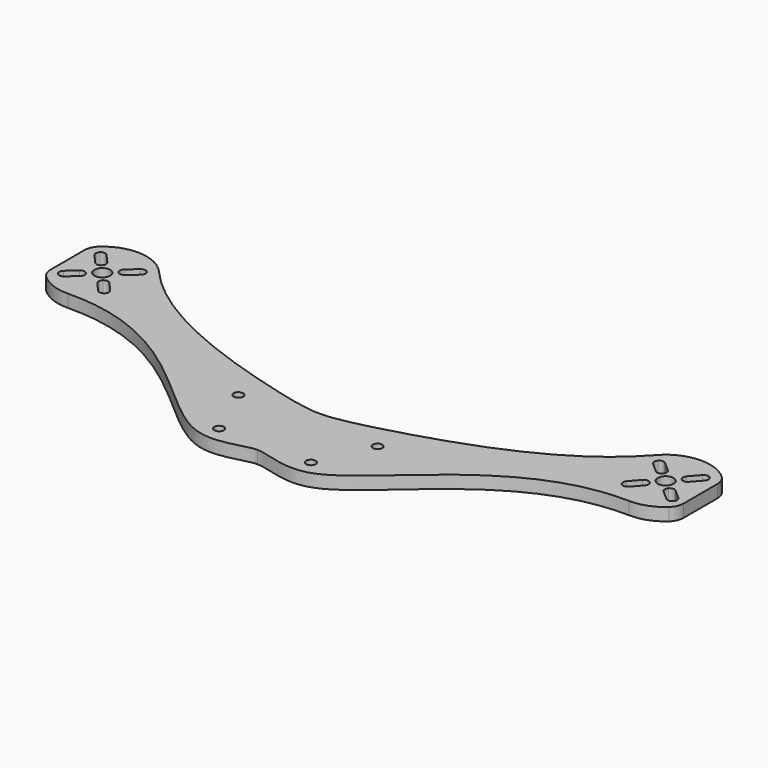
from build123d import *

# Parameters (mm, degrees)
F0_R     = 2.5
F0_R_2   = 1.5
F1_DEPTH = 4


with BuildPart() as f1:
    # F0 (on Top) → F1 (new body)
    with BuildSketch(Plane.XY):
        with BuildLine():
            ThreePointArc((100, 36.7082039325), (99.5643546459, 38.7494453848), (98.3333333333, 40.434983895))
            ThreePointArc((98.3333333333, 40.434983895), (88.2480547914, 43.9797917868), (78.6012006129, 39.3736317032))
            add(Edge.make_bspline(
                [(78.2678444341, 38.9900409849), (78.3796218574, 39.1174296296), (78.4907435172, 39.2452925352), (78.6012006129, 39.3736317032)],
                knots=[0.9951145834, 0.9951145834, 0.9951145834, 0.9951145834, 1, 1, 1, 1], degree=3))
            ThreePointArc((78.2678444341, 38.9900409849), (76.230411331, 24.2608706912), (88.5978294237, 16.0057776626))
            ThreePointArc((88.5978294237, 16.0057776626), (93.807126129, 16.8511773006), (98.3333333333, 19.565016105))
            ThreePointArc((98.3333333333, 19.565016105), (99.5643546459, 21.2505546152), (100, 23.2917960675))
            Line((100, 23.2917960675), (100, 36.7082039325))
        make_face()
        with BuildLine():
            Line((86.490440342, 24.8812003045), (83.846652322, 21.8794699859))
            ThreePointArc((83.846652322, 21.8794699859), (82.8159172375, 21.3738963808), (81.729582945, 21.745241624))
            ThreePointArc((81.729582945, 21.745241624), (81.2240093398, 22.7759767085), (81.595354583, 23.8623110009))
            Line((81.595354583, 23.8623110009), (84.239142603, 26.8640413195))
            ThreePointArc((84.239142603, 26.8640413195), (85.2698776875, 27.3696149247), (86.35621198, 26.9982696815))
            ThreePointArc((86.35621198, 26.9982696815), (86.8617855852, 25.967534597), (86.490440342, 24.8812003045))
        make_face(mode=Mode.SUBTRACT)
        with BuildLine():
            Line((94.1187996955, 27.490440342), (97.1205300141, 24.846652322))
            ThreePointArc((97.1205300141, 24.846652322), (97.6261036192, 23.8159172375), (97.254758376, 22.729582945))
            ThreePointArc((97.254758376, 22.729582945), (96.2240232915, 22.2240093398), (95.1376889991, 22.595354583))
            Line((95.1376889991, 22.595354583), (92.1359586805, 25.239142603))
            ThreePointArc((92.1359586805, 25.239142603), (91.6303850753, 26.2698776875), (92.0017303185, 27.35621198))
            ThreePointArc((92.0017303185, 27.35621198), (93.032465403, 27.8617855852), (94.1187996955, 27.490440342))
        make_face(mode=Mode.SUBTRACT)
        with Locations((89, 30)):
            Circle(F0_R, mode=Mode.SUBTRACT)
        with BuildLine():
            Line((83.8812003045, 32.509559658), (80.8794699859, 35.153347678))
            ThreePointArc((80.8794699859, 35.153347678), (80.3738963808, 36.1840827625), (80.745241624, 37.270417055))
            ThreePointArc((80.745241624, 37.270417055), (81.7759767085, 37.7759906602), (82.8623110009, 37.404645417))
            Line((82.8623110009, 37.404645417), (85.8640413195, 34.760857397))
            ThreePointArc((85.8640413195, 34.760857397), (86.3696149247, 33.7301223125), (85.9982696815, 32.64378802))
            ThreePointArc((85.9982696815, 32.64378802), (84.967534597, 32.1382144148), (83.8812003045, 32.509559658))
        make_face(mode=Mode.SUBTRACT)
        with BuildLine():
            Line((91.509559658, 35.1187996955), (94.153347678, 38.1205300141))
            ThreePointArc((94.153347678, 38.1205300141), (95.1840827625, 38.6261036192), (96.270417055, 38.254758376))
            ThreePointArc((96.270417055, 38.254758376), (96.7759906602, 37.2240232915), (96.404645417, 36.1376889991))
            Line((96.404645417, 36.1376889991), (93.760857397, 33.1359586805))
            ThreePointArc((93.760857397, 33.1359586805), (92.7301223125, 32.6303850753), (91.64378802, 33.0017303185))
            ThreePointArc((91.64378802, 33.0017303185), (91.1382144148, 34.032465403), (91.509559658, 35.1187996955))
        make_face(mode=Mode.SUBTRACT)
        with BuildLine():
            add(Edge.make_bspline(
                [(78.2678444341, 38.9900409849), (78.3796218574, 39.1174296296), (78.4907435172, 39.2452925352), (78.6012006129, 39.3736317032)],
                knots=[0.9951145834, 0.9951145834, 0.9951145834, 0.9951145834, 1, 1, 1, 1], degree=3))
            ThreePointArc((78.6012006129, 39.3736317032), (78.4327818341, 39.1833490751), (78.2678444341, 38.9900409849))
        make_face()
        with BuildLine():
            ThreePointArc((88.5978294237, 16.0057776626), (76.230411331, 24.2608706912), (78.2678444341, 38.9900409849))
            add(Edge.make_bspline(
                [(0, 4.748087842), (3.7510812941, 4.556623698), (23.9631634822, 9.0849893596), (63.9002947469, 22.6158696289), (78.2678444341, 38.9900409849)],
                knots=[0, 0, 0, 0, 0.3671571365, 0.9951145834, 0.9951145834, 0.9951145834, 0.9951145834], degree=3))
            add(Edge.make_bspline(
                [(0, 4.748087842), (-3.7510812941, 4.556623698), (-23.9631634822, 9.0849893596), (-63.9002947469, 22.6158696289), (-78.2678444341, 38.9900409849)],
                knots=[0, 0, 0, 0, 0.3671571365, 0.9951145834, 0.9951145834, 0.9951145834, 0.9951145834], degree=3))
            ThreePointArc((-78.2678444341, 38.9900409849), (-76.230411331, 24.2608706912), (-88.5978294237, 16.0057776626))
            add(Edge.make_bspline(
                [(0, -20), (-3.7175141039, -19.8114133897), (-24.2979575574, -32.2702358468), (-52.3226244724, 16.7220671125), (-88.5978294237, 16.0057776626)],
                knots=[0, 0, 0, 0, 0.3194759338, 1, 1, 1, 1], degree=3))
            add(Edge.make_bspline(
                [(0, -20), (3.7175141039, -19.8114133897), (24.2979575574, -32.2702358468), (52.3226244724, 16.7220671125), (88.5978294237, 16.0057776626)],
                knots=[0, 0, 0, 0, 0.3194759338, 1, 1, 1, 1], degree=3))
        make_face()
        with Locations((-14.5, -17)):
            Circle(F0_R_2, mode=Mode.SUBTRACT)
        with Locations((-22, 0)):
            Circle(F0_R_2, mode=Mode.SUBTRACT)
        with Locations((14.5, -17)):
            Circle(F0_R_2, mode=Mode.SUBTRACT)
        with Locations((22, 0)):
            Circle(F0_R_2, mode=Mode.SUBTRACT)
        with BuildLine():
            add(Edge.make_bspline(
                [(-78.2678444341, 38.9900409849), (-78.3796218574, 39.1174296296), (-78.4907435172, 39.2452925352), (-78.6012006129, 39.3736317032)],
                knots=[0.9951145834, 0.9951145834, 0.9951145834, 0.9951145834, 1, 1, 1, 1], degree=3))
            ThreePointArc((-78.2678444341, 38.9900409849), (-78.4327818341, 39.1833490751), (-78.6012006129, 39.3736317032))
        make_face()
        with BuildLine():
            ThreePointArc((-88.5978294237, 16.0057776626), (-76.230411331, 24.2608706912), (-78.2678444341, 38.9900409849))
            add(Edge.make_bspline(
                [(-78.2678444341, 38.9900409849), (-78.3796218574, 39.1174296296), (-78.4907435172, 39.2452925352), (-78.6012006129, 39.3736317032)],
                knots=[0.9951145834, 0.9951145834, 0.9951145834, 0.9951145834, 1, 1, 1, 1], degree=3))
            ThreePointArc((-78.6012006129, 39.3736317032), (-88.2480547914, 43.9797917868), (-98.3333333333, 40.434983895))
            ThreePointArc((-98.3333333333, 40.434983895), (-99.5643546459, 38.7494453848), (-100, 36.7082039325))
            Line((-100, 36.7082039325), (-100, 23.2917960675))
            ThreePointArc((-100, 23.2917960675), (-99.5643546459, 21.2505546152), (-98.3333333333, 19.565016105))
            ThreePointArc((-98.3333333333, 19.565016105), (-93.807126129, 16.8511773006), (-88.5978294237, 16.0057776626))
        make_face()
        with BuildLine():
            ThreePointArc((-81.729582945, 21.745241624), (-82.8159172375, 21.3738963808), (-83.846652322, 21.8794699859))
            Line((-83.846652322, 21.8794699859), (-86.490440342, 24.8812003045))
            ThreePointArc((-86.490440342, 24.8812003045), (-86.8617855852, 25.967534597), (-86.35621198, 26.9982696815))
            ThreePointArc((-86.35621198, 26.9982696815), (-85.2698776875, 27.3696149247), (-84.239142603, 26.8640413195))
            Line((-84.239142603, 26.8640413195), (-81.595354583, 23.8623110009))
            ThreePointArc((-81.595354583, 23.8623110009), (-81.2240093398, 22.7759767085), (-81.729582945, 21.745241624))
        make_face(mode=Mode.SUBTRACT)
        with BuildLine():
            Line((-92.1359586805, 25.239142603), (-95.1376889991, 22.595354583))
            ThreePointArc((-95.1376889991, 22.595354583), (-96.2240232915, 22.2240093398), (-97.254758376, 22.729582945))
            ThreePointArc((-97.254758376, 22.729582945), (-97.6261036192, 23.8159172375), (-97.1205300141, 24.846652322))
            Line((-97.1205300141, 24.846652322), (-94.1187996955, 27.490440342))
            ThreePointArc((-94.1187996955, 27.490440342), (-93.032465403, 27.8617855852), (-92.0017303185, 27.35621198))
            ThreePointArc((-92.0017303185, 27.35621198), (-91.6303850753, 26.2698776875), (-92.1359586805, 25.239142603))
        make_face(mode=Mode.SUBTRACT)
        with Locations((-89, 30)):
            Circle(F0_R, mode=Mode.SUBTRACT)
        with BuildLine():
            Line((-93.760857397, 33.1359586805), (-96.404645417, 36.1376889991))
            ThreePointArc((-96.404645417, 36.1376889991), (-96.7759906602, 37.2240232915), (-96.270417055, 38.254758376))
            ThreePointArc((-96.270417055, 38.254758376), (-95.1840827625, 38.6261036192), (-94.153347678, 38.1205300141))
            Line((-94.153347678, 38.1205300141), (-91.509559658, 35.1187996955))
            ThreePointArc((-91.509559658, 35.1187996955), (-91.1382144148, 34.032465403), (-91.64378802, 33.0017303185))
            ThreePointArc((-91.64378802, 33.0017303185), (-92.7301223125, 32.6303850753), (-93.760857397, 33.1359586805))
        make_face(mode=Mode.SUBTRACT)
        with BuildLine():
            ThreePointArc((-80.745241624, 37.270417055), (-80.3738963808, 36.1840827625), (-80.8794699859, 35.153347678))
            Line((-80.8794699859, 35.153347678), (-83.8812003045, 32.509559658))
            ThreePointArc((-83.8812003045, 32.509559658), (-84.967534597, 32.1382144148), (-85.9982696815, 32.64378802))
            ThreePointArc((-85.9982696815, 32.64378802), (-86.3696149247, 33.7301223125), (-85.8640413195, 34.760857397))
            Line((-85.8640413195, 34.760857397), (-82.8623110009, 37.404645417))
            ThreePointArc((-82.8623110009, 37.404645417), (-81.7759767085, 37.7759906602), (-80.745241624, 37.270417055))
        make_face(mode=Mode.SUBTRACT)
    extrude(amount=F1_DEPTH)


solid = f1.part
